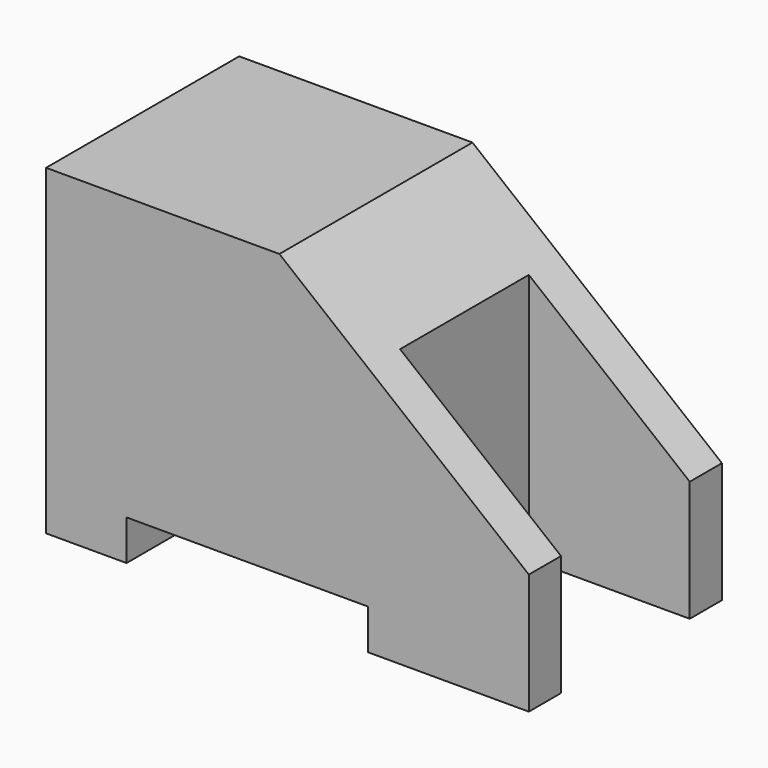
from build123d import *

# Parameters (mm, degrees)
F1_DEPTH = 7.5
F2_W     = 10
F2_H     = 10
F3_DEPTH = 20.001


with BuildPart() as f1:
    # F0 (on Front) → F1 (new body, symmetric)
    with BuildSketch(Plane.XZ):
        Polygon((0, 20), (0, 0), (5, 0), (5, 2.5), (20, 2.5), (20, 0), (30, 0), (30, 7.5), (14.5, 20), align=None)
    extrude(amount=F1_DEPTH, both=True)

    # F2 (on face) → F3 (cut, through all)
    with BuildSketch(Plane.XY.offset(20)):
        with Locations((25, 0)):
            Rectangle(F2_W, F2_H)
    extrude(amount=-F3_DEPTH, mode=Mode.SUBTRACT)


solid = f1.part
